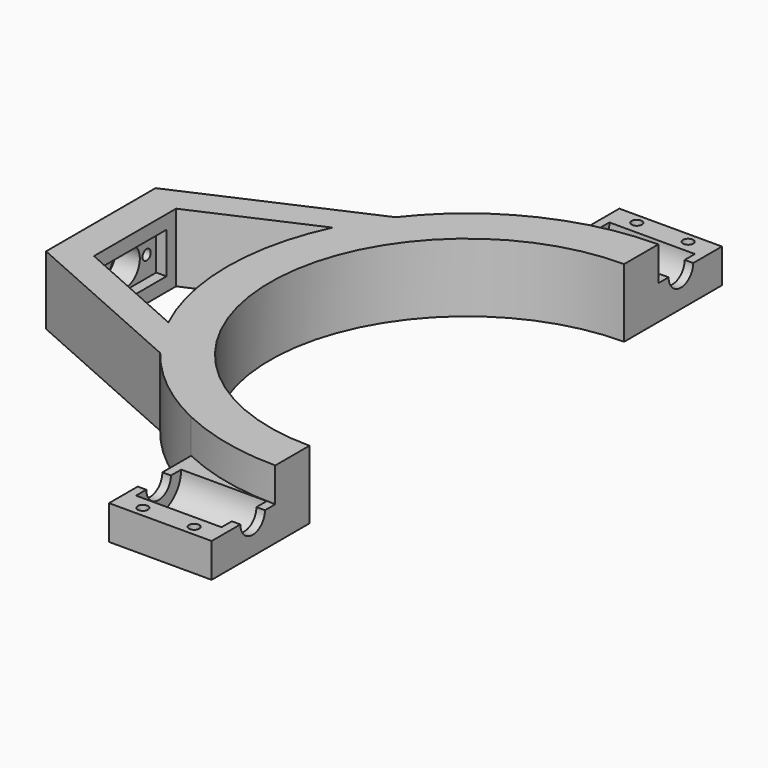
from build123d import *

# Parameters (mm, degrees)
PAD_DEPTH       = 20
SKETCH001_R     = 4.5
POCKET_DEPTH    = 107.001
SKETCH002_R     = 8.25
POCKET001_DEPTH = 25
POCKET002_DEPTH = 10
SKETCH004_R     = 1.5
POCKET003_DEPTH = 10.001
SKETCH005_R     = 5.5
POCKET004_DEPTH = 10
SKETCH006_W     = 23
SKETCH006_H     = 12
POCKET005_DEPTH = 3
SKETCH007_R     = 1.5
POCKET006_DEPTH = 7.001


with BuildPart() as part:
    # Sketch → Pad (new body)
    with BuildSketch(Plane.XY):
        with BuildLine():
            ThreePointArc((0, 57.5), (-57.5, 0), (0, -57.5))
            Line((0, -57.5), (0, -93.245553))
            Line((0, -93.245553), (-30, -93.245553))
            Line((-30, -93.245553), (-30, -63.245553))
            ThreePointArc((-55.235858, -43), (-43.803635, -54.600747), (-30, -63.245553))
            Line((-107, -20), (-55.235858, -43))
            Line((-107, 20), (-107, -20))
            Line((-55.235858, 43), (-107, 20))
            ThreePointArc((-30, 63.245553), (-43.803635, 54.600747), (-55.235858, 43))
            Line((-30, 93.245553), (-30, 63.245553))
            Line((0, 93.245553), (-30, 93.245553))
            Line((0, 57.5), (0, 93.245553))
        make_face()
        with BuildLine():
            Line((-63.245553, 30), (-97, 15))
            Line((-97, 15), (-97, -15))
            Line((-97, -15), (-63.245553, -30))
            ThreePointArc((-63.245553, 30), (-70, 0), (-63.245553, -30))
        make_face(mode=Mode.SUBTRACT)
    extrude(amount=PAD_DEPTH)

    # Sketch001 (on Face2 of Pad) → Pocket (cut, through all)
    with BuildSketch(Plane.YZ):
        with Locations((-78.25, 10)):
            Circle(SKETCH001_R)
        with Locations((78.25, 10)):
            Circle(SKETCH001_R)
    extrude(amount=-POCKET_DEPTH, mode=Mode.SUBTRACT)

    # Sketch002 (on Face3 of Pocket) → Pocket001 (cut)
    with BuildSketch(Plane.YZ.offset(-2.5)):
        with Locations((-78.25, 10)):
            Circle(SKETCH002_R)
        with Locations((78.25, 10)):
            Circle(SKETCH002_R)
    extrude(amount=-POCKET001_DEPTH, mode=Mode.SUBTRACT)

    # Sketch003 (on Face5 of Pocket001) → Pocket002 (cut)
    with BuildSketch(Plane.XY.offset(20)):
        with BuildLine():
            ThreePointArc((0, 70), (-16.341175, 68.065894), (-31.779335, 62.370457))
            Line((-31.779335, 62.370457), (-31.779335, 95))
            Line((-31.779335, 95), (0, 95))
            Line((0, 95), (0, 70))
        make_face()
        with BuildLine():
            ThreePointArc((-31.779335, -62.370457), (-16.341175, -68.065894), (0, -70))
            Line((0, -95), (0, -70))
            Line((-31.779335, -95), (0, -95))
            Line((-31.779335, -62.370457), (-31.779335, -95))
        make_face()
    extrude(amount=-POCKET002_DEPTH, mode=Mode.SUBTRACT)

    # Sketch004 (on Face11 of Pocket002) → Pocket003 (cut, through all)
    with BuildSketch(Plane.XY.offset(10)):
        with Locations((-22.5, 90.25)):
            Circle(SKETCH004_R)
        with Locations((-7.5, 90.25)):
            Circle(SKETCH004_R)
        with Locations((-7.5, -90.25)):
            Circle(SKETCH004_R)
        with Locations((-22.5, -90.25)):
            Circle(SKETCH004_R)
    extrude(amount=-POCKET003_DEPTH, mode=Mode.SUBTRACT)

    # Sketch005 (on Face20 of Pocket003) → Pocket004 (cut)
    with BuildSketch(Plane(origin=(-107, 0, 0), x_dir=(0, -1, 0), z_dir=(-1, 0, 0))):
        with Locations((0, 10)):
            Circle(SKETCH005_R)
    extrude(amount=-POCKET004_DEPTH, mode=Mode.SUBTRACT)

    # Sketch006 (on Face25 of Pocket004) → Pocket005 (cut)
    with BuildSketch(Plane.YZ.offset(-97)):
        with Locations((0, 10)):
            Rectangle(SKETCH006_W, SKETCH006_H)
    extrude(amount=-POCKET005_DEPTH, mode=Mode.SUBTRACT)

    # Sketch007 (on Face42 of Pocket005) → Pocket006 (cut, through all)
    with BuildSketch(Plane.YZ.offset(-100)):
        with Locations((-8, 10)):
            Circle(SKETCH007_R)
        with Locations((8, 10)):
            Circle(SKETCH007_R)
    extrude(amount=-POCKET006_DEPTH, mode=Mode.SUBTRACT)


solid = part.part
